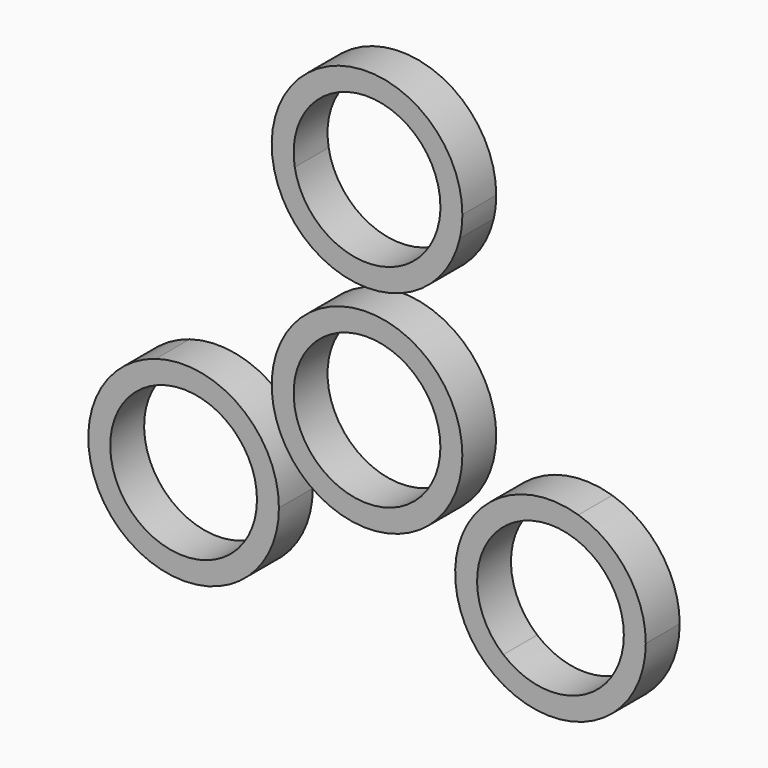
from build123d import *

# Parameters (mm, degrees)
F0_R     = 14.2875
F0_R_2   = 10.9982
F1_DEPTH = 6.35


with BuildPart() as f1:
    # F0 (on Front) → F1 (new body)
    with BuildSketch(Plane.XZ):
        with BuildLine():
            ThreePointArc((-13.208807, -15.875), (-18.997488, -4.390109), (-31.672881, -2.211586))
            ThreePointArc((-31.672881, -2.211586), (-31.511771, -3.882109), (-31.262615, -5.541785))
            ThreePointArc((-31.262615, -5.541785), (-21.190048, -6.864367), (-16.498107, -15.875))
            ThreePointArc((-16.498107, -15.875), (-17.52961, -20.525308), (-20.430635, -24.303326))
            ThreePointArc((-20.430635, -24.303326), (-19.117891, -25.34894), (-17.75173, -26.323727))
            ThreePointArc((-17.75173, -26.323727), (-14.393668, -21.571798), (-13.208807, -15.875))
        make_face()
        with BuildLine():
            ThreePointArc((-31.262615, -5.541785), (-31.511771, -3.882109), (-31.672881, -2.211586))
            ThreePointArc((-31.672881, -2.211586), (-39.869645, -23.01875), (-17.75173, -26.323727))
            ThreePointArc((-17.75173, -26.323727), (-19.117891, -25.34894), (-20.430635, -24.303326))
            ThreePointArc((-20.430635, -24.303326), (-37.021027, -21.3741), (-31.262615, -5.541785))
        make_face()
        with BuildLine():
            ThreePointArc((-10.831981, 29.845112), (-12.39388, 29.231049), (-13.921151, 28.535312))
            ThreePointArc((-13.921151, 28.535312), (0, 17.4625), (13.921151, 28.535312))
            ThreePointArc((13.921151, 28.535312), (12.39388, 29.231049), (10.831981, 29.845112))
            ThreePointArc((10.831981, 29.845112), (0, 20.7518), (-10.831981, 29.845112))
        make_face()
        with BuildLine():
            ThreePointArc((13.921151, 28.535312), (14.195617, 30.132253), (14.2875, 31.75))
            ThreePointArc((14.2875, 31.75), (-1.617747, 45.945617), (-13.921151, 28.535312))
            ThreePointArc((-13.921151, 28.535312), (-12.39388, 29.231049), (-10.831981, 29.845112))
            ThreePointArc((-10.831981, 29.845112), (-0.956063, 42.706566), (10.9982, 31.75))
            ThreePointArc((10.9982, 31.75), (10.956566, 30.793937), (10.831981, 29.845112))
            ThreePointArc((10.831981, 29.845112), (12.39388, 29.231049), (13.921151, 28.535312))
        make_face()
        Circle(F0_R)
        Circle(F0_R_2, mode=Mode.SUBTRACT)
        with BuildLine():
            ThreePointArc((31.262615, -5.541785), (31.511771, -3.882109), (31.672881, -2.211586))
            ThreePointArc((31.672881, -2.211586), (15.122969, -8.73125), (17.75173, -26.323727))
            ThreePointArc((17.75173, -26.323727), (19.117891, -25.34894), (20.430635, -24.303326))
            ThreePointArc((20.430635, -24.303326), (17.971586, -10.3759), (31.262615, -5.541785))
        make_face()
        with BuildLine():
            ThreePointArc((41.783807, -15.875), (38.981198, -7.376181), (31.672881, -2.211586))
            ThreePointArc((31.672881, -2.211586), (31.511771, -3.882109), (31.262615, -5.541785))
            ThreePointArc((31.262615, -5.541785), (36.50694, -9.568742), (38.494507, -15.875))
            ThreePointArc((38.494507, -15.875), (32.146615, -25.841696), (20.430635, -24.303326))
            ThreePointArc((20.430635, -24.303326), (19.117891, -25.34894), (17.75173, -26.323727))
            ThreePointArc((17.75173, -26.323727), (33.193105, -28.977639), (41.783807, -15.875))
        make_face()
    extrude(amount=F1_DEPTH)


solid = f1.part
